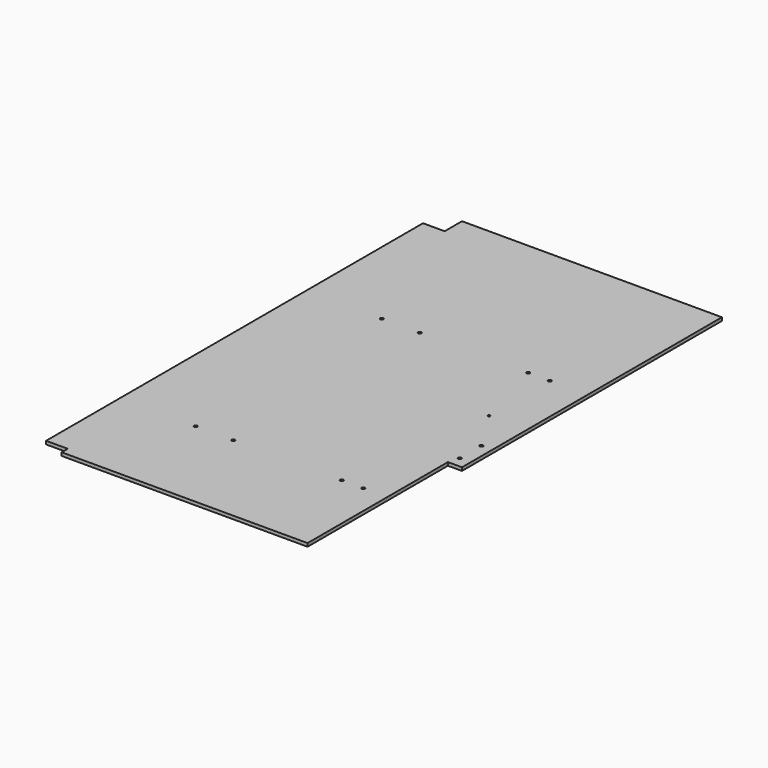
from build123d import *

# Parameters (mm, degrees)
SKETCH020_R   = 1.5
SKETCH020_R_2 = 1
PAD034_DEPTH  = 3


with BuildPart() as part:
    # Sketch020 → Pad034 (new body)
    with BuildSketch(Plane.XY):
        Polygon((-205, -237), (22, -237), (22, -75), (35, -75), (35, 225), (-205, 225), (-205, 205), (-225, 205), (-225, -230), (-205, -230), align=None)
        with Locations((-155, 70)):
            Circle(SKETCH020_R, mode=Mode.SUBTRACT)
        with Locations((-120, 70)):
            Circle(SKETCH020_R, mode=Mode.SUBTRACT)
        with Locations((25, -40)):
            Circle(SKETCH020_R, mode=Mode.SUBTRACT)
        with Locations((25, -65)):
            Circle(SKETCH020_R, mode=Mode.SUBTRACT)
        with Locations((-120, -145)):
            Circle(SKETCH020_R, mode=Mode.SUBTRACT)
        with Locations((-155, -145)):
            Circle(SKETCH020_R, mode=Mode.SUBTRACT)
        Circle(SKETCH020_R_2, mode=Mode.SUBTRACT)
        with Locations((-20, 70)):
            Circle(SKETCH020_R, mode=Mode.SUBTRACT)
        with Locations((0, 70)):
            Circle(SKETCH020_R, mode=Mode.SUBTRACT)
        with Locations((-20, -145)):
            Circle(SKETCH020_R, mode=Mode.SUBTRACT)
        with Locations((0, -145)):
            Circle(SKETCH020_R, mode=Mode.SUBTRACT)
    extrude(amount=PAD034_DEPTH)


with BuildPart() as part_1:
    # Body035 placement: moved
    add(part.part.moved(Location((0, 0, -30))))


solid = part_1.part
